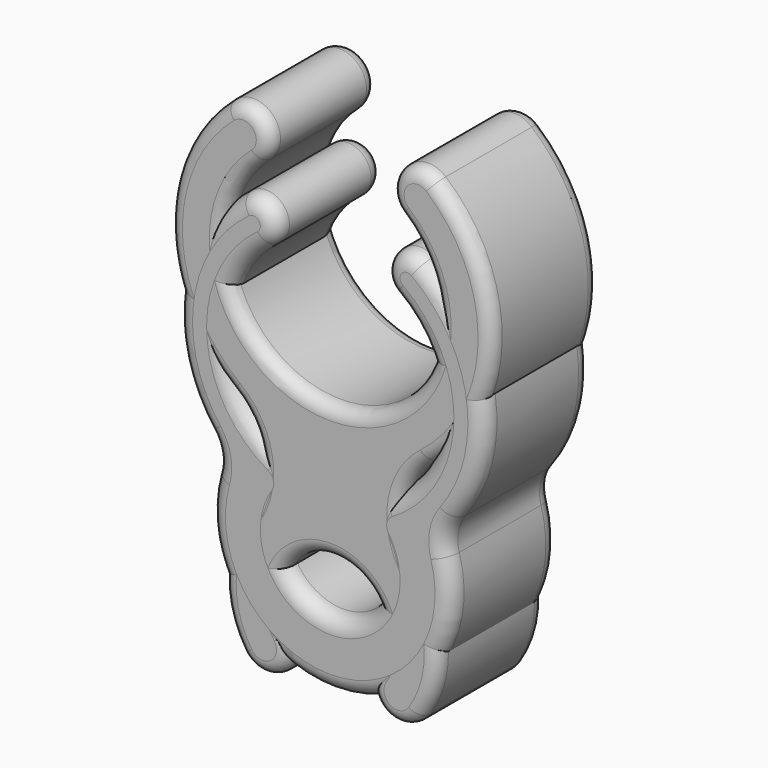
from build123d import *

# Parameters (mm, degrees)
PAD_DEPTH    = 5
FILLET_R     = 0.5
PAD001_DEPTH = 5
FILLET001_R  = 0.6


with BuildPart() as body:
    # Sketch → Pad (new body)
    with BuildSketch(Plane.XZ):
        with BuildLine():
            ThreePointArc((1.666667, -5.203064), (0, -2.097523), (-1.666667, -5.203064))
            ThreePointArc((-3.333333, -6.308606), (-1.947229, -6.589169), (-1.666667, -5.203064))
            ThreePointArc((-3.168591, -1.656205), (-3.997495, -3.955971), (-3.333333, -6.308606))
            ThreePointArc((-3.168591, -1.656205), (-2.627078, 0.348877), (-3.661977, 2.149591))
            ThreePointArc((-3.9, 11.462082), (-5.998041, 6.74917), (-3.661977, 2.149591))
            ThreePointArc((-2.6, 9.942214), (-2.490066, 11.352148), (-3.9, 11.462082))
            ThreePointArc((-2.6, 9.942214), (0, 2.902477), (2.6, 9.942214))
            ThreePointArc((3.9, 11.462082), (2.490066, 11.352148), (2.6, 9.942214))
            ThreePointArc((3.661977, 2.149591), (5.998041, 6.74917), (3.9, 11.462082))
            ThreePointArc((3.661977, 2.149591), (2.627078, 0.348877), (3.168591, -1.656205))
            ThreePointArc((3.333333, -6.308606), (3.997495, -3.955971), (3.168591, -1.656205))
            ThreePointArc((1.666667, -5.203064), (1.947229, -6.589169), (3.333333, -6.308606))
        make_face()
    extrude(amount=PAD_DEPTH)

    # Fillet
    fillet_edges = [body.edges().sort_by_distance(p)[0] for p in [
        (1.666667, -2.5, -5.203064),
        (3.333333, -2.5, -6.308606),
        (1.947229, 0, -6.589169),
        (1.947229, -5, -6.589169),
        (-1.666667, -2.5, -5.203064),
        (0, 0, -2.097523),
        (0, -5, -2.097523),
        (-3.333333, -2.5, -6.308606),
        (-1.947229, 0, -6.589169),
        (-1.947229, -5, -6.589169),
        (-3.168591, -2.5, -1.656205),
        (-3.997495, 0, -3.955971),
        (-3.997495, -5, -3.955971),
        (-3.661977, -2.5, 2.149591),
        (-2.627078, 0, 0.348877),
        (-2.627078, -5, 0.348877),
        (-3.9, -2.5, 11.462082),
        (-5.998041, 0, 6.74917),
        (-5.998041, -5, 6.74917),
        (-2.6, -2.5, 9.942214),
        (-2.490066, 0, 11.352148),
        (-2.490066, -5, 11.352148),
        (2.6, -2.5, 9.942214),
        (0, 0, 2.902477),
        (0, -5, 2.902477),
        (3.9, -2.5, 11.462082),
        (2.490066, 0, 11.352148),
        (2.490066, -5, 11.352148),
        (3.661977, -2.5, 2.149591),
        (5.998041, 0, 6.74917),
        (5.998041, -5, 6.74917),
        (3.168591, -2.5, -1.656205),
        (2.627078, 0, 0.348877),
        (2.627078, -5, 0.348877),
        (3.997495, 0, -3.955971),
        (3.997495, -5, -3.955971),
    ]]
    fillet(fillet_edges, radius=FILLET_R)


with BuildPart() as body001:
    # Sketch001 → Pad001 (new body)
    with BuildSketch(Plane.XZ):
        with BuildLine():
            ThreePointArc((2.005253, 0.538937), (3.994569, 3.791634), (2.354465, 7.23365))
            ThreePointArc((3.368818, 8.626774), (2.16508, 8.437389), (2.354465, 7.23365))
            ThreePointArc((4.558181, 0.538937), (5.662386, 4.832686), (3.368818, 8.626774))
            ThreePointArc((4.558181, 0.538937), (4.287312, -0.073718), (4.320799, -0.742743))
            ThreePointArc((-4.320799, -0.742743), (0, -6.5), (4.320799, -0.742743))
            ThreePointArc((-4.320799, -0.742743), (-4.287312, -0.073718), (-4.558181, 0.538937))
            ThreePointArc((-3.368818, 8.626774), (-5.662386, 4.832686), (-4.558181, 0.538937))
            ThreePointArc((-2.354465, 7.23365), (-2.16508, 8.437389), (-3.368818, 8.626774))
            ThreePointArc((-2.354465, 7.23365), (-3.994569, 3.791634), (-2.005253, 0.538937))
            ThreePointArc((-1.668123, -0.896657), (-1.526832, -0.106095), (-2.005253, 0.538937))
            ThreePointArc((-1.668123, -0.896657), (0, -4), (1.668123, -0.896657))
            ThreePointArc((2.005253, 0.538937), (1.526832, -0.106095), (1.668123, -0.896657))
        make_face()
    extrude(amount=PAD001_DEPTH)

    # Fillet001
    fillet001_edges = [body001.edges().sort_by_distance(p)[0] for p in [
        (-1.668123, -2.5, -0.896657),
        (1.668123, -2.5, -0.896657),
        (0, 0, -4),
        (0, -5, -4),
        (2.005253, -2.5, 0.538937),
        (1.526832, 0, -0.106095),
        (1.526832, -5, -0.106095),
        (2.354465, -2.5, 7.23365),
        (3.994569, 0, 3.791634),
        (3.994569, -5, 3.791634),
        (3.368818, -2.5, 8.626774),
        (2.16508, 0, 8.437389),
        (2.16508, -5, 8.437389),
        (4.558181, -2.5, 0.538937),
        (5.662386, 0, 4.832686),
        (5.662386, -5, 4.832686),
        (4.320799, -2.5, -0.742743),
        (4.287312, 0, -0.073718),
        (4.287312, -5, -0.073718),
        (-4.320799, -2.5, -0.742743),
        (0, 0, -6.5),
        (0, -5, -6.5),
        (-4.558181, -2.5, 0.538937),
        (-4.287312, 0, -0.073718),
        (-4.287312, -5, -0.073718),
        (-3.368818, -2.5, 8.626774),
        (-5.662386, 0, 4.832686),
        (-5.662386, -5, 4.832686),
        (-2.354465, -2.5, 7.23365),
        (-2.16508, 0, 8.437389),
        (-2.16508, -5, 8.437389),
        (-2.005253, -2.5, 0.538937),
        (-3.994569, 0, 3.791634),
        (-3.994569, -5, 3.791634),
        (-1.526832, 0, -0.106095),
        (-1.526832, -5, -0.106095),
    ]]
    fillet(fillet001_edges, radius=FILLET001_R)


solid = Compound([body.part, body001.part])
